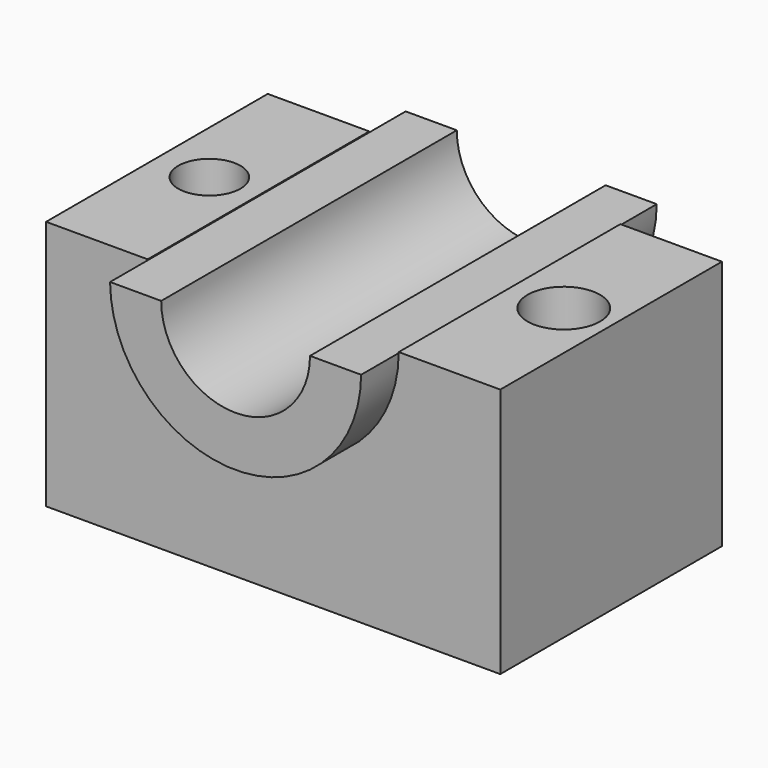
from build123d import *

# Parameters (mm, degrees)
F0_W      = 184.214562
F0_H      = 112.362482
F1_DEPTH  = 101.6
F2_R      = 50.916607
F3_DEPTH  = 19.05
F3_FACE_R = 50.916607
F4_DEPTH  = 149.86
F6_DEPTH  = 330.2
F7_R      = 12.615392
F7_R_2    = 14.70042
F8_DEPTH  = 254
F9_R      = 30.176395
F10_DEPTH = 381


with BuildPart() as f1:
    # F0 (on Top) → F1 (new body)
    with BuildSketch(Plane.XY):
        Rectangle(F0_W, F0_H)
    extrude(amount=F1_DEPTH)

    # F2 (on face) → F3 (join)
    with BuildSketch(Plane.XZ.offset(56.181241)):
        with Locations((0, 101.6)):
            Circle(F2_R)
    extrude(amount=F3_DEPTH)

    # F3_face (on face) → F4 (join)
    with BuildSketch(Plane(origin=(0, -75.231241, 101.6), x_dir=(1, 0, 0), z_dir=(0, -1, 0))):
        Circle(F3_FACE_R)
    extrude(amount=-F4_DEPTH)

    # F5 (on face) → F6 (cut)
    with BuildSketch(Plane.XZ.offset(75.231241)):
        with BuildLine():
            Line((-50.915336, 101.240156), (50.915342, 101.241072))
            ThreePointArc((50.915342, 101.241072), (50.916291, 101.420535), (50.916607, 101.6))
            ThreePointArc((50.916607, 101.6), (-0.179923, 152.51629), (-50.915336, 101.240156))
        make_face()
    extrude(amount=-F6_DEPTH, mode=Mode.SUBTRACT)

    # F7 (on face) → F8 (cut)
    with BuildSketch(Plane.XY.offset(101.6)):
        with Locations((-70.830584, 0)):
            Circle(F7_R)
        with Locations((72.924256, 0)):
            Circle(F7_R_2)
    extrude(amount=-F8_DEPTH, mode=Mode.SUBTRACT)

    # F9 (on face) → F10 (cut)
    with BuildSketch(Plane.XZ.offset(75.231241)):
        with Locations((3e-06, 101.240614)):
            Circle(F9_R)
    extrude(amount=-F10_DEPTH, mode=Mode.SUBTRACT)


solid = f1.part
